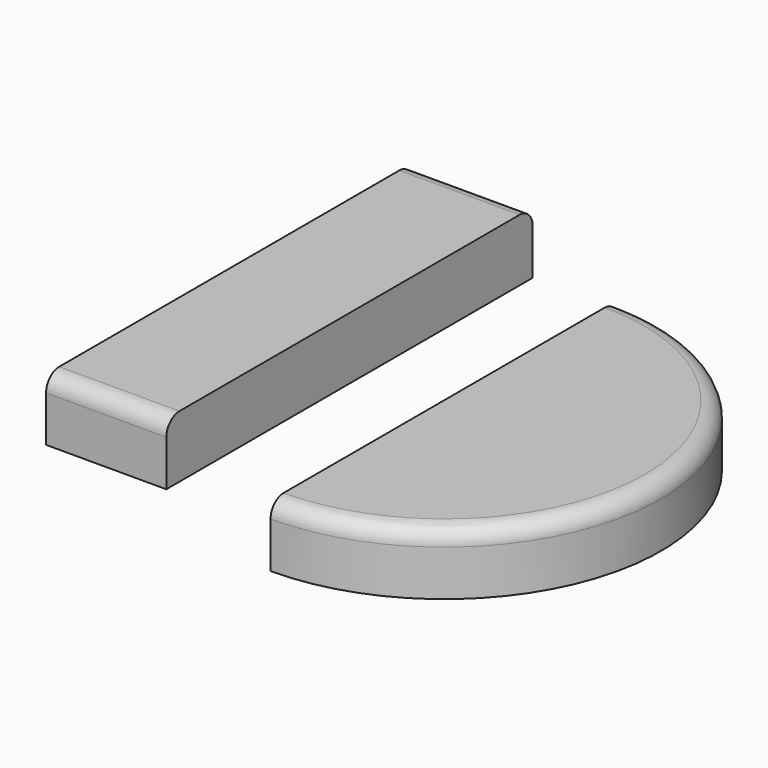
from build123d import *

# Parameters (mm, degrees)
F1_DEPTH = 19
F2_W     = 36.761642
F2_H     = 140
F3_DEPTH = 19
F4_R     = 5
F5_R     = 5


with BuildPart() as f1:
    # F0 (on Top) → F1 (new body)
    with BuildSketch(Plane.XY):
        with BuildLine():
            Line((0, 66.330475), (0, -66.330475))
            ThreePointArc((0, -66.330475), (66.330475, 0), (0, 66.330475))
        make_face()
    extrude(amount=F1_DEPTH)

    # F4
    f4_edges = [f1.edges().sort_by_distance(p)[0] for p in [
        (66.330475, 0, 19),
    ]]
    fillet(f4_edges, radius=F4_R)


with BuildPart() as f3:
    # F2 (on face) → F3 (new body)
    with BuildSketch(Plane.XY.offset(19)):
        with Locations((-41.423712, -7.360049)):
            Rectangle(F2_W, F2_H)
    extrude(amount=F3_DEPTH)

    # F5
    f5_edges = [f3.edges().sort_by_distance(p)[0] for p in [
        (-41.423712, -77.360049, 38),
        (-41.423712, 62.639951, 38),
    ]]
    fillet(f5_edges, radius=F5_R)


solid = Compound([f1.part, f3.part])
